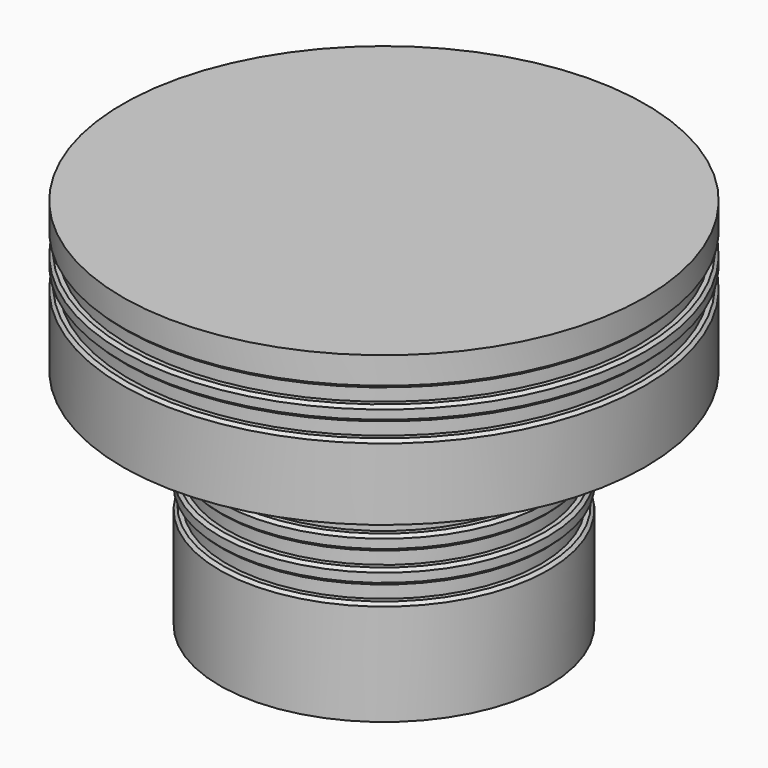
from build123d import *

# Parameters (mm, degrees)
F0_R      = 11
F0_R_2    = 8.5
F1_DEPTH  = 15
F2_R      = 17.5
F3_DEPTH  = 10
F4_R      = 11
F4_R_2    = 10.5
F5_DEPTH  = 12
F6_R      = 11
F6_R_2    = 10.5
F7_DEPTH  = 11
F8_R      = 11
F8_R_2    = 10.5
F9_DEPTH  = 10
F10_R     = 11
F10_R_2   = 10.5
F11_DEPTH = 9
F12_R     = 11
F12_R_2   = 10.5
F13_DEPTH = 8
F14_R     = 11
F14_R_2   = 10.5
F15_DEPTH = 7
F16_R     = 17.5
F16_R_2   = 17
F17_DEPTH = 8
F18_R     = 17.5
F18_R_2   = 17
F19_DEPTH = 7
F20_R     = 17.5
F20_R_2   = 17
F21_DEPTH = 6
F22_R     = 17.5
F22_R_2   = 17
F23_DEPTH = 5
F24_SIZE  = 0.2


with BuildPart() as f1:
    # F0 (on Top) → F1 (new body)
    with BuildSketch(Plane.XY):
        Circle(F0_R)
        Circle(F0_R_2, mode=Mode.SUBTRACT)
    extrude(amount=F1_DEPTH)

    # F2 (on face) → F3 (join)
    with BuildSketch(Plane.XY.offset(15)):
        Circle(F2_R)
    extrude(amount=F3_DEPTH)

    # F4 (on face) → F5 (cut)
    with BuildSketch(Plane(origin=(0, 0, 0), x_dir=(1, 0, 0), z_dir=(0, 0, -1))):
        Circle(F4_R)
        Circle(F4_R_2, mode=Mode.SUBTRACT)
    extrude(amount=-F5_DEPTH, mode=Mode.SUBTRACT)

    # F6 (on face) → F7 (join)
    with BuildSketch(Plane(origin=(0, 0, 0), x_dir=(1, 0, 0), z_dir=(0, 0, -1))):
        Circle(F6_R)
        Circle(F6_R_2, mode=Mode.SUBTRACT)
    extrude(amount=-F7_DEPTH)

    # F8 (on face) → F9 (cut)
    with BuildSketch(Plane(origin=(0, 0, 0), x_dir=(1, 0, 0), z_dir=(0, 0, -1))):
        Circle(F8_R)
        Circle(F8_R_2, mode=Mode.SUBTRACT)
    extrude(amount=-F9_DEPTH, mode=Mode.SUBTRACT)

    # F10 (on face) → F11 (join)
    with BuildSketch(Plane(origin=(0, 0, 0), x_dir=(1, 0, 0), z_dir=(0, 0, -1))):
        Circle(F10_R)
        Circle(F10_R_2, mode=Mode.SUBTRACT)
    extrude(amount=-F11_DEPTH)

    # F12 (on face) → F13 (cut)
    with BuildSketch(Plane(origin=(0, 0, 0), x_dir=(1, 0, 0), z_dir=(0, 0, -1))):
        Circle(F12_R)
        Circle(F12_R_2, mode=Mode.SUBTRACT)
    extrude(amount=-F13_DEPTH, mode=Mode.SUBTRACT)

    # F14 (on face) → F15 (join)
    with BuildSketch(Plane(origin=(0, 0, 0), x_dir=(1, 0, 0), z_dir=(0, 0, -1))):
        Circle(F14_R)
        Circle(F14_R_2, mode=Mode.SUBTRACT)
    extrude(amount=-F15_DEPTH)

    # F16 (on face) → F17 (cut)
    with BuildSketch(Plane(origin=(0, 0, 15), x_dir=(1, 0, 0), z_dir=(0, 0, -1))):
        Circle(F16_R)
        Circle(F16_R_2, mode=Mode.SUBTRACT)
    extrude(amount=-F17_DEPTH, mode=Mode.SUBTRACT)

    # F18 (on face) → F19 (join)
    with BuildSketch(Plane(origin=(0, 0, 15), x_dir=(1, 0, 0), z_dir=(0, 0, -1))):
        Circle(F18_R)
        Circle(F18_R_2, mode=Mode.SUBTRACT)
    extrude(amount=-F19_DEPTH)

    # F20 (on face) → F21 (cut)
    with BuildSketch(Plane(origin=(0, 0, 15), x_dir=(1, 0, 0), z_dir=(0, 0, -1))):
        Circle(F20_R)
        Circle(F20_R_2, mode=Mode.SUBTRACT)
    extrude(amount=-F21_DEPTH, mode=Mode.SUBTRACT)

    # F22 (on face) → F23 (join)
    with BuildSketch(Plane(origin=(0, 0, 15), x_dir=(1, 0, 0), z_dir=(0, 0, -1))):
        Circle(F22_R)
        Circle(F22_R_2, mode=Mode.SUBTRACT)
    extrude(amount=-F23_DEPTH)

    # F24
    f24_edges = [f1.edges().sort_by_distance(p)[0] for p in [
        (-17.5, 0, 23),
        (-17.5, 0, 22),
        (-17.5, 0, 20),
        (-17.5, 0, 21),
        (-11, 0, 12),
        (-11, 0, 10),
        (-11, 0, 11),
        (-11, 0, 9),
        (-11, 0, 8),
        (-11, 0, 7),
    ]]
    chamfer(f24_edges, length=F24_SIZE)


solid = f1.part
